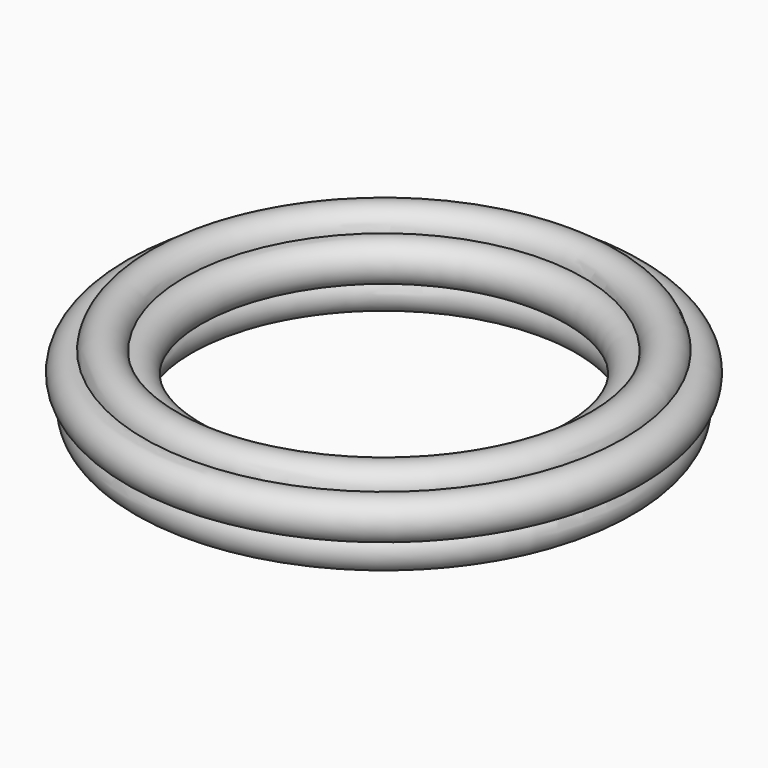
from build123d import *


with BuildPart() as f1:
    # F0 (on Front) → F1 (revolve)
    with BuildSketch(Plane.XZ):
        with BuildLine():
            ThreePointArc((-82.360269, -15.488182), (-72.276294, -16.855137), (-70.111889, -6.911774))
            ThreePointArc((-70.111889, -6.911774), (-65.775891, 2.294432), (-74.608196, 7.348689))
            ThreePointArc((-74.608196, 7.348689), (-81.874921, 14.249436), (-89.51573, 7.765329))
            ThreePointArc((-89.51573, 7.765329), (-98.222108, 2.803012), (-94.222893, -6.38567))
            ThreePointArc((-94.222893, -6.38567), (-92.494272, -16.413979), (-82.360269, -15.488182))
        make_face()
    revolve(axis=Axis((0, 0, 7.814411), (0, 0, 1)))


solid = f1.part
